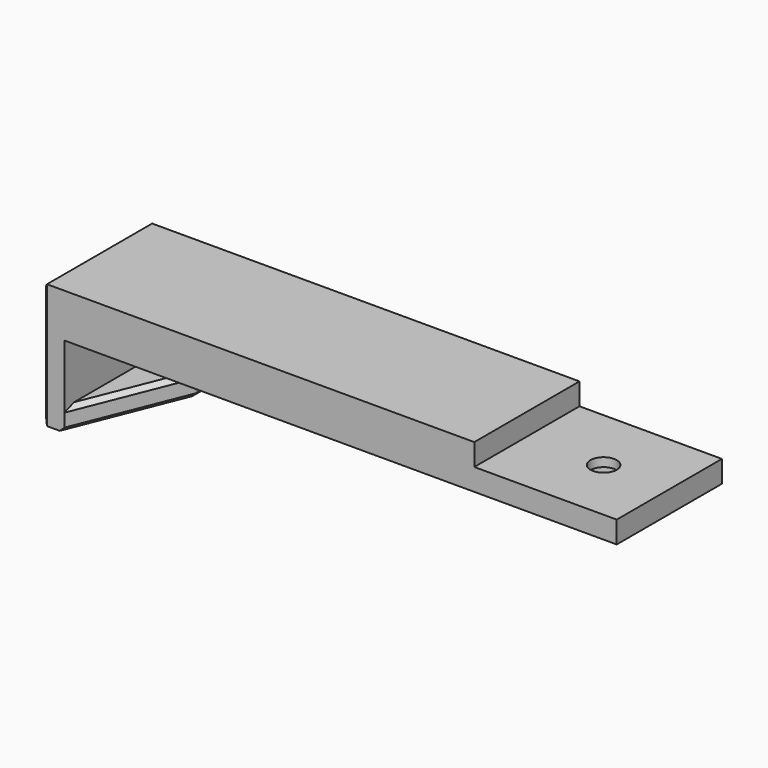
from build123d import *

# Parameters (mm, degrees)
SKETCH027_W      = 131
SKETCH027_H      = 30
PAD009_DEPTH     = 10
SKETCH026_W      = 15
SKETCH026_H      = 30
PAD010_DEPTH     = 18.5
SKETCH028_W      = 30
SKETCH028_H      = 13.5
POCKET017_DEPTH  = 10
SKETCH025_R      = 3
POCKET018_DEPTH  = 10.001
SKETCH029_W      = 32.5
SKETCH029_H      = 30
POCKET019_DEPTH  = 5
SKETCH039_R      = 5
POCKET027_DEPTH  = 3
CHAMFER008_SIZE2 = 10
CHAMFER008_SIZE  = 25
CHAMFER009_SIZE  = 1


with BuildPart() as part:
    # Sketch027 → Pad009 (new body)
    with BuildSketch(Plane.XY):
        Rectangle(SKETCH027_W, SKETCH027_H)
    extrude(amount=PAD009_DEPTH)

    # Sketch026 (on Face5 of Pad009) → Pad010 (join)
    with BuildSketch(Plane(origin=(0, 0, 0), x_dir=(1, 0, 0), z_dir=(0, 0, -1))):
        with Locations((-58, 0)):
            Rectangle(SKETCH026_W, SKETCH026_H)
    extrude(amount=PAD010_DEPTH)

    # Sketch028 (on Face9 of Pad010) → Pocket017 (cut)
    with BuildSketch(Plane.YZ.offset(-50.5)):
        with Locations((0, -6.75)):
            Rectangle(SKETCH028_W, SKETCH028_H)
    extrude(amount=-POCKET017_DEPTH, mode=Mode.SUBTRACT)

    # Sketch025 (on Face5 of Pocket017) → Pocket018 (cut, through all)
    with BuildSketch(Plane(origin=(0, 0, 0), x_dir=(1, 0, 0), z_dir=(0, 0, -1))):
        with Locations((50.5, 0)):
            Circle(SKETCH025_R)
    extrude(amount=-POCKET018_DEPTH, mode=Mode.SUBTRACT)

    # Sketch029 → Pocket019 (cut)
    with BuildSketch(Plane.XY.offset(10)):
        with Locations((49.25, 0)):
            Rectangle(SKETCH029_W, SKETCH029_H)
    extrude(amount=-POCKET019_DEPTH, mode=Mode.SUBTRACT)

    # Sketch039 (on Face4 of Pocket019) → Pocket027 (cut)
    with BuildSketch(Plane(origin=(0, 0, 0), x_dir=(1, 0, 0), z_dir=(0, 0, -1))):
        with Locations((50.5, 0)):
            Circle(SKETCH039_R)
    extrude(amount=-POCKET027_DEPTH, mode=Mode.SUBTRACT)

    # Chamfer008
    chamfer008_edges = [part.edges().sort_by_distance(p)[0] for p in [
        (-50.5, -15, -16),
    ]]
    chamfer008_side = part.faces().sort_by_distance((-50.5, 0, -16))[0]
    chamfer(chamfer008_edges, length=CHAMFER008_SIZE, length2=CHAMFER008_SIZE2, reference=chamfer008_side)

    # Chamfer009
    chamfer009_edges = [part.edges().sort_by_distance(p)[0] for p in [
        (-55.5, -2.5, -13.5),
        (-55.5, -2.5, -18.5),
        (-50.5, 12.5, -13.5),
        (-50.5, 12.5, -18.5),
        (-58, 15, -18.5),
        (-50.5, 15, -16),
        (-65.5, 0, -18.5),
        (-65.5, -15, -9.25),
        (-65.5, -15, 5),
        (-65.5, 0, 10),
        (-65.5, 15, -9.25),
        (-65.5, 15, 5),
    ]]
    chamfer(chamfer009_edges, length=CHAMFER009_SIZE)


solid = part.part
